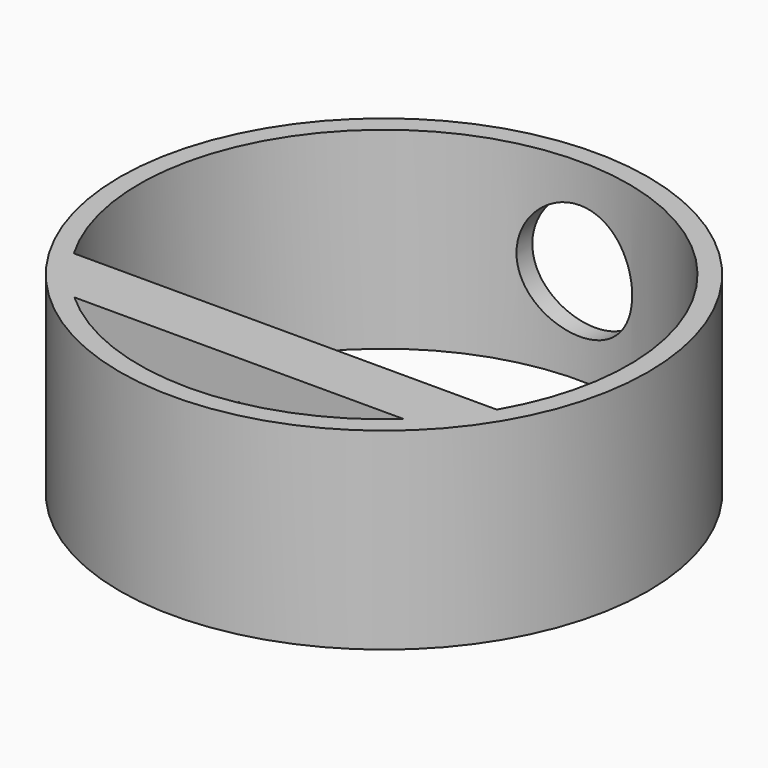
from build123d import *

# Parameters (mm, degrees)
F0_R     = 17.399
F1_DEPTH = 12.7
F2_R     = 1.651
F3_DEPTH = 3.81
F5_DEPTH = 2.54
F6_R     = 3.81
F7_DEPTH = 25.528


with BuildPart() as f1:
    # F0 (on Top) → F1 (new body)
    with BuildSketch(Plane.XY):
        Circle(F0_R)
        with BuildLine():
            ThreePointArc((10.845681, -11.938), (0, -16.129), (-10.845681, -11.938))
            Line((-10.845681, -11.938), (10.845681, -11.938))
        make_face(mode=Mode.SUBTRACT)
        with BuildLine():
            Line((13.931269, -8.128), (-13.931269, -8.128))
            ThreePointArc((-13.931269, -8.128), (0, 16.129), (13.931269, -8.128))
        make_face(mode=Mode.SUBTRACT)
    extrude(amount=F1_DEPTH)

    # F2 (on face) → F3 (cut, through all)
    with BuildSketch(Plane(origin=(0, -8.128, 0), x_dir=(-1, 0, 0), z_dir=(0, 1, 0))):
        with Locations((0, 6.35)):
            Circle(F2_R)
    extrude(amount=-F3_DEPTH, mode=Mode.SUBTRACT)

    # F4 (on face) → F5 (cut)
    with BuildSketch(Plane.XZ.offset(11.938)):
        Polygon((3.302, 4.443589), (3.302, 8.256411), (0, 10.162821), (-3.302, 8.256411), (-3.302, 4.443589), (0, 2.537179), align=None)
    extrude(amount=-F5_DEPTH, mode=Mode.SUBTRACT)

    # F6 (on face) → F7 (cut, through all)
    with BuildSketch(Plane(origin=(0, -8.128, 0), x_dir=(-1, 0, 0), z_dir=(0, 1, 0))):
        with Locations((0, 6.35)):
            Circle(F6_R)
    extrude(amount=F7_DEPTH, mode=Mode.SUBTRACT)


solid = f1.part
